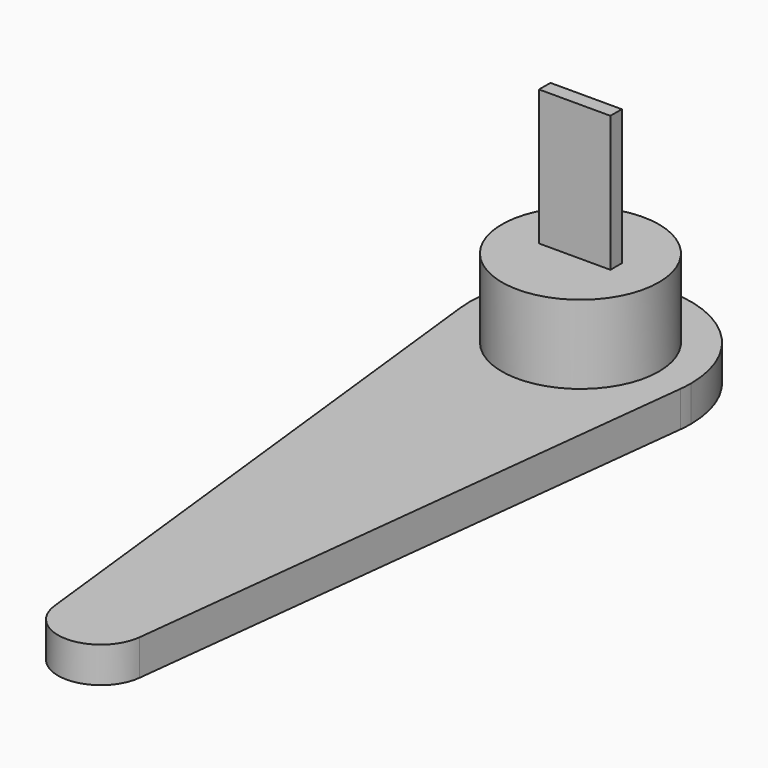
from build123d import *

# Parameters (mm, degrees)
F0_W     = 5
F0_H     = 1
F1_DEPTH = 15
F0_R     = 5.5
F2_DEPTH = 5.5
F3_DEPTH = 2.5


with BuildPart() as f1:
    # F0 (on Top) → F1 (new body)
    with BuildSketch(Plane.XY):
        Rectangle(F0_W, F0_H)
    extrude(amount=F1_DEPTH)

    # F0 (on Top) → F2 (join)
    with BuildSketch(Plane.XY):
        Circle(F0_R)
        Rectangle(F0_W, F0_H, mode=Mode.SUBTRACT)
    extrude(amount=F2_DEPTH)

    # F0 (on Top) → F3 (join)
    with BuildSketch(Plane.XY):
        with BuildLine():
            ThreePointArc((7.7002771781, -0.8764880952), (0, -7.75), (-7.7002771781, -0.8764880952))
            Line((-7.7002771781, -0.8764880952), (-2.980752456, -42.3392857143))
            ThreePointArc((-2.980752456, -42.3392857143), (-0.1699156143, -39.0048157512), (3, -42))
            ThreePointArc((3, -42), (2.9951842488, -42.1699156143), (2.980752456, -42.3392857143))
            Line((2.980752456, -42.3392857143), (7.7002771781, -0.8764880952))
        make_face()
        with BuildLine():
            ThreePointArc((7.7002771781, -0.8764880952), (7.7375593093, -0.4389486702), (7.75, 0))
            ThreePointArc((7.75, 0), (-0.4389486702, 7.7375593093), (-7.7002771781, -0.8764880952))
            ThreePointArc((-7.7002771781, -0.8764880952), (0, -7.75), (7.7002771781, -0.8764880952))
        make_face()
        Circle(F0_R, mode=Mode.SUBTRACT)
        Circle(F0_R)
        Rectangle(F0_W, F0_H, mode=Mode.SUBTRACT)
        with BuildLine():
            ThreePointArc((3, -42), (-0.1699156143, -39.0048157512), (-2.980752456, -42.3392857143))
            ThreePointArc((-2.980752456, -42.3392857143), (0, -45), (2.980752456, -42.3392857143))
            ThreePointArc((2.980752456, -42.3392857143), (2.9951842488, -42.1699156143), (3, -42))
        make_face()
        Rectangle(F0_W, F0_H)
    extrude(amount=-F3_DEPTH)


solid = f1.part
